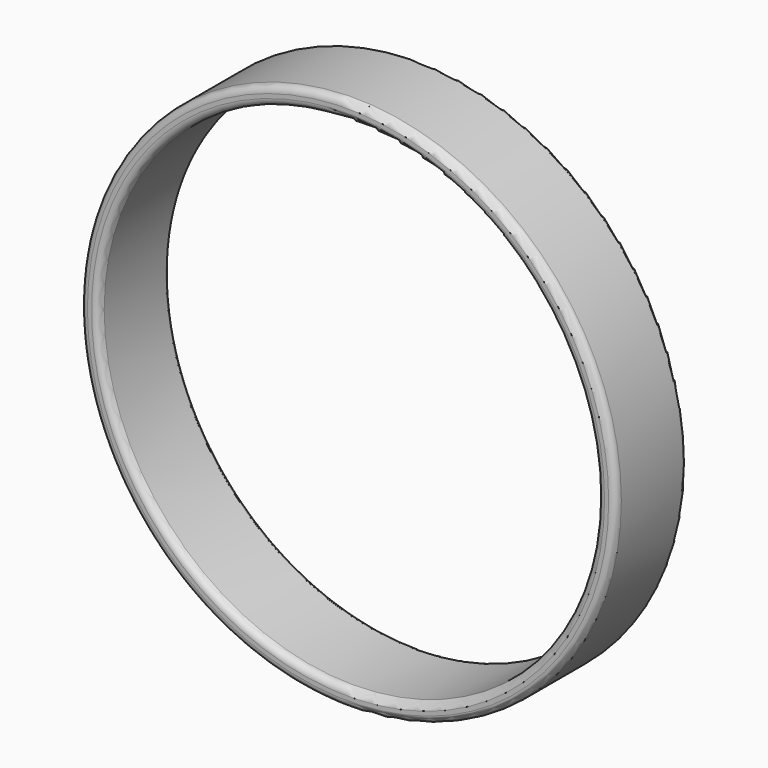
from build123d import *

# Parameters (mm, degrees)
F0_R     = 36.85
F0_R_2   = 34.35
F1_DEPTH = 12
F2_R     = 0.965685
F3_R     = 0.4


with BuildPart() as f1:
    # F0 (on Front) → F1 (new body)
    with BuildSketch(Plane.XZ):
        Circle(F0_R)
        Circle(F0_R_2, mode=Mode.SUBTRACT)
    extrude(amount=F1_DEPTH)

    # F2
    f2_edges = [f1.edges().sort_by_distance(p)[0] for p in [
        (-34.35, -12, 0),
        (-36.85, -12, 0),
    ]]
    fillet(f2_edges, radius=F2_R)

    # F3
    f3_edges = [f1.edges().sort_by_distance(p)[0] for p in [
        (-34.35, 0, 0),
        (-36.85, 0, 0),
    ]]
    fillet(f3_edges, radius=F3_R)


solid = f1.part
